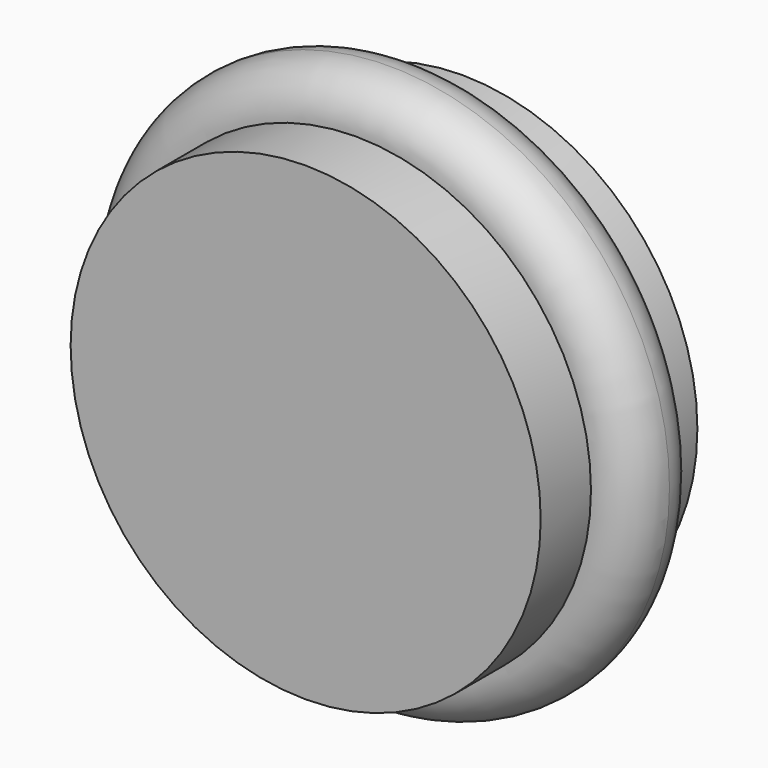
from build123d import *

# Parameters (mm, degrees)
F0_R     = 38.1
F1_DEPTH = 31.75
F2_R     = 6.829463


with BuildPart() as f1:
    # F0 (on Front) → F1 (new body)
    with BuildSketch(Plane.XZ):
        Circle(F0_R)
    extrude(amount=F1_DEPTH)

    # F2 (on Top) → F3 (revolve)
    with BuildSketch(Plane.XY):
        with Locations((38.546924, -14.74872)):
            Circle(F2_R)
    revolve(axis=Axis((0, -31.75, 0), (0, -1, 0)))


solid = f1.part
